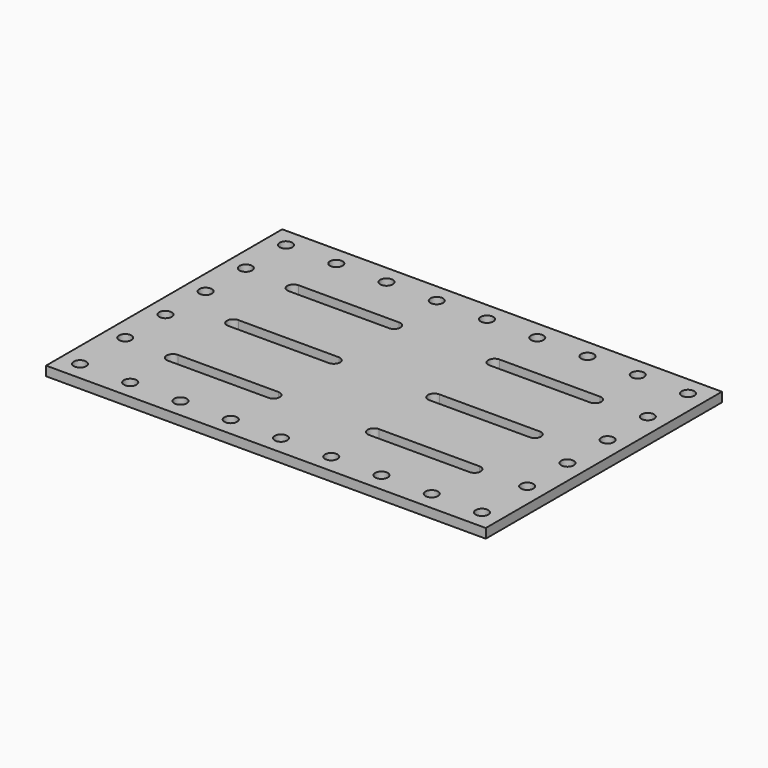
from build123d import *

# Parameters (mm, degrees)
F0_W     = 889
F0_H     = 596.9
F1_DEPTH = 19.05
F3_R     = 12.7
F4_DEPTH = 25.4
F5_DEPTH = 25.4


with BuildPart() as f1:
    # F0 (on Top) → F1 (new body)
    with BuildSketch(Plane.XY):
        with Locations((444.5, 298.45)):
            Rectangle(F0_W, F0_H)
    extrude(amount=F1_DEPTH)

    # F3 (on face) → F4 (cut)
    with BuildSketch(Plane.XY.offset(19.05)):
        with Locations((38.1, 558.8)):
            Circle(F3_R)
        with Locations((139.7, 558.8)):
            Circle(F3_R)
        with Locations((241.3, 558.8)):
            Circle(F3_R)
        with Locations((342.9, 558.8)):
            Circle(F3_R)
        with Locations((444.5, 558.8)):
            Circle(F3_R)
        with Locations((546.1, 558.8)):
            Circle(F3_R)
        with Locations((647.7, 558.8)):
            Circle(F3_R)
        with Locations((749.3, 558.8)):
            Circle(F3_R)
        with Locations((850.9, 558.8)):
            Circle(F3_R)
        with Locations((342.9, 38.1)):
            Circle(F3_R)
        with Locations((850.9, 38.1)):
            Circle(F3_R)
        with Locations((139.7, 38.1)):
            Circle(F3_R)
        with Locations((241.3, 38.1)):
            Circle(F3_R)
        with Locations((647.7, 38.1)):
            Circle(F3_R)
        with Locations((749.3, 38.1)):
            Circle(F3_R)
        with Locations((38.1, 38.1)):
            Circle(F3_R)
        with Locations((444.5, 38.1)):
            Circle(F3_R)
        with Locations((546.1, 38.1)):
            Circle(F3_R)
        with Locations((38.1, 457.2)):
            Circle(F3_R)
        with Locations((38.1, 355.6)):
            Circle(F3_R)
        with Locations((38.1, 254)):
            Circle(F3_R)
        with Locations((38.1, 152.4)):
            Circle(F3_R)
        with Locations((850.9, 152.4)):
            Circle(F3_R)
        with Locations((850.9, 254)):
            Circle(F3_R)
        with Locations((850.9, 355.6)):
            Circle(F3_R)
        with Locations((850.9, 457.2)):
            Circle(F3_R)
    extrude(amount=-F4_DEPTH, mode=Mode.SUBTRACT)

    # F2 (on face) → F5 (cut)
    with BuildSketch(Plane.XY.offset(19.05)):
        with BuildLine():
            ThreePointArc((139.7, 463.55), (127, 450.85), (139.7, 438.15))
            Line((139.7, 438.15), (342.9, 438.15))
            ThreePointArc((342.9, 438.15), (355.6, 450.85), (342.9, 463.55))
            Line((342.9, 463.55), (139.7, 463.55))
        make_face()
        with BuildLine():
            ThreePointArc((749.3, 438.15), (762, 450.85), (749.3, 463.55))
            Line((749.3, 463.55), (546.1, 463.55))
            ThreePointArc((546.1, 463.55), (533.4, 450.85), (546.1, 438.15))
            Line((546.1, 438.15), (749.3, 438.15))
        make_face()
        with BuildLine():
            Line((342.9, 311.15), (139.7, 311.15))
            ThreePointArc((139.7, 311.15), (127, 298.45), (139.7, 285.75))
            Line((139.7, 285.75), (342.9, 285.75))
            ThreePointArc((342.9, 285.75), (355.6, 298.45), (342.9, 311.15))
        make_face()
        with BuildLine():
            Line((749.3, 311.15), (546.1, 311.15))
            ThreePointArc((546.1, 311.15), (533.4, 298.45), (546.1, 285.75))
            Line((546.1, 285.75), (749.3, 285.75))
            ThreePointArc((749.3, 285.75), (762, 298.45), (749.3, 311.15))
        make_face()
        with BuildLine():
            Line((139.7, 133.35), (342.9, 133.35))
            ThreePointArc((342.9, 133.35), (355.6, 146.05), (342.9, 158.75))
            Line((342.9, 158.75), (139.7, 158.75))
            ThreePointArc((139.7, 158.75), (127, 146.05), (139.7, 133.35))
        make_face()
        with BuildLine():
            ThreePointArc((546.1, 158.75), (533.4, 146.05), (546.1, 133.35))
            Line((546.1, 133.35), (749.3, 133.35))
            ThreePointArc((749.3, 133.35), (762, 146.05), (749.3, 158.75))
            Line((749.3, 158.75), (546.1, 158.75))
        make_face()
    extrude(amount=-F5_DEPTH, mode=Mode.SUBTRACT)


solid = f1.part
